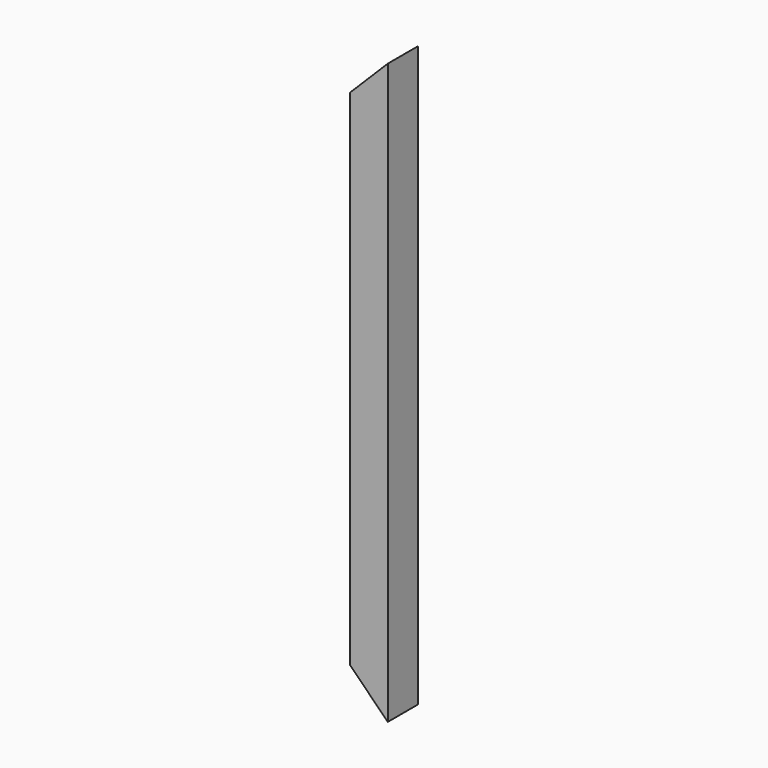
from build123d import *

# Parameters (mm, degrees)
F1_W     = 15
F1_H     = 15
F1_W_2   = 13
F1_H_2   = 13
F2_DEPTH = 229
F4_DEPTH = 25


with BuildPart() as f2:
    # F1 (on Top) → F2 (new body)
    with BuildSketch(Plane.XY):
        Rectangle(F1_W, F1_H)
        Rectangle(F1_W_2, F1_H_2, mode=Mode.SUBTRACT)
    extrude(amount=F2_DEPTH)

    # F3 (on face) → F4 (cut)
    with BuildSketch(Plane.XZ.offset(7.5)):
        Polygon((7.5, 0), (-7.5, 15), (-7.5, 0), align=None)
        Polygon((7.5, 229), (-7.5, 229), (-7.5, 214), align=None)
        Polygon((7.5, 0), (-7.5, 15), (-7.5, 0), align=None)
    extrude(amount=-F4_DEPTH, mode=Mode.SUBTRACT)


solid = f2.part
